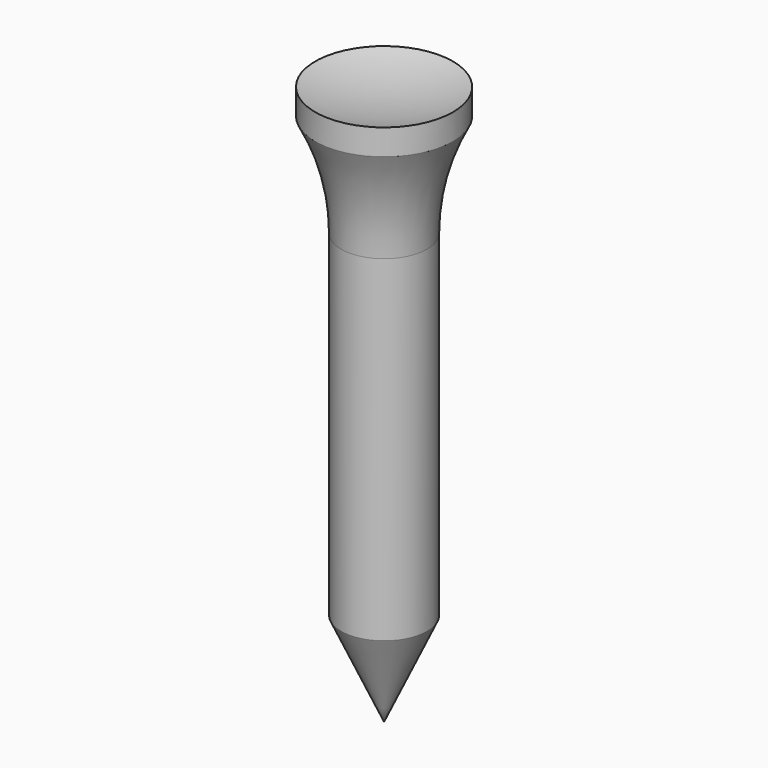
from build123d import *


with BuildPart() as f1:
    # F0 (on Front) → F1 (revolve)
    with BuildSketch(Plane.XZ):
        Polygon((0, 31.75), (0, 0), (3.175, 6.927032), (3.175, 31.75), align=None)
        with BuildLine():
            Line((0, 39.37), (0, 31.75))
            Line((0, 31.75), (3.175, 31.75))
            ThreePointArc((3.175, 31.75), (3.658468, 35.677258), (5.08, 39.37))
            Line((5.08, 39.37), (0, 39.37))
        make_face()
        with BuildLine():
            Line((0, 40.585177), (0, 39.37))
            Line((0, 39.37), (5.08, 39.37))
            Line((5.08, 39.37), (5.08, 41.275))
            ThreePointArc((5.08, 41.275), (2.563311, 40.758421), (0, 40.585177))
        make_face()
    revolve(axis=Axis((0, 0, 39.977589), (0, 0, 1)))


solid = f1.part
